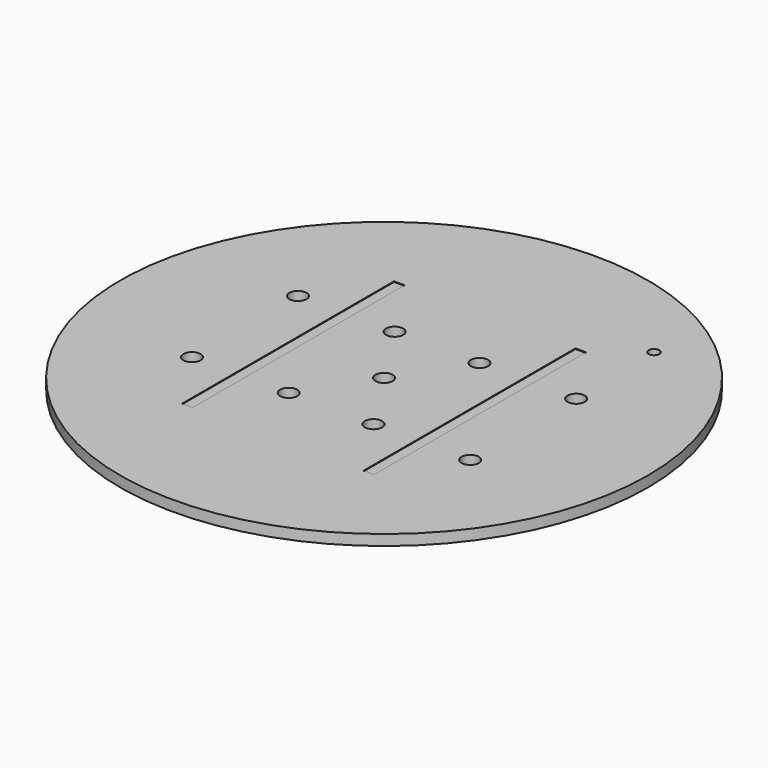
from build123d import *

# Parameters (mm, degrees)
F0_W     = 3.2
F0_H     = 80
F0_R     = 79.7
F0_R_2   = 2.6
F1_DEPTH = 3.2
F2_DEPTH = 3
F4_D     = 3.2
F4_DEPTH = 3.2


with BuildPart() as f1:
    # F0 (on Top) → F1 (new body)
    with BuildSketch(Plane.XY):
        with Locations((-27.4, 0)):
            Rectangle(F0_W, F0_H)
        Polygon((25.8, 40), (25.8, -40), (29, -40), (29, 39.927304), align=None)
        Circle(F0_R)
        with Locations((-42, -20)):
            Circle(F0_R_2, mode=Mode.SUBTRACT)
        with Locations((-12.8, -20)):
            Circle(F0_R_2, mode=Mode.SUBTRACT)
        with Locations((12.8, -20)):
            Circle(F0_R_2, mode=Mode.SUBTRACT)
        with Locations((42, -20)):
            Circle(F0_R_2, mode=Mode.SUBTRACT)
        with Locations((-42, 20)):
            Circle(F0_R_2, mode=Mode.SUBTRACT)
        with Locations((-27.4, 0)):
            Rectangle(F0_W, F0_H, mode=Mode.SUBTRACT)
        with Locations((-12.8, 20)):
            Circle(F0_R_2, mode=Mode.SUBTRACT)
        Circle(F0_R_2, mode=Mode.SUBTRACT)
        Polygon((29, -40), (25.8, -40), (25.8, 40), (29, 40), (29, 39.927304), align=None, mode=Mode.SUBTRACT)
        with Locations((12.8, 20)):
            Circle(F0_R_2, mode=Mode.SUBTRACT)
        with Locations((42, 20)):
            Circle(F0_R_2, mode=Mode.SUBTRACT)
    extrude(amount=F1_DEPTH)

    # F0 (on Top) → F2 (join)
    with BuildSketch(Plane.XY):
        with Locations((-27.4, 0)):
            Rectangle(F0_W, F0_H)
        Polygon((25.8, 40), (25.8, -40), (29, -40), (29, 39.927304), align=None)
    extrude(amount=F2_DEPTH)

    # F4
    with Locations(Plane.XY.offset(3.2)):
        with Locations((41.473566, 50.049408)):
            Hole(F4_D / 2, depth=F4_DEPTH)


solid = f1.part
